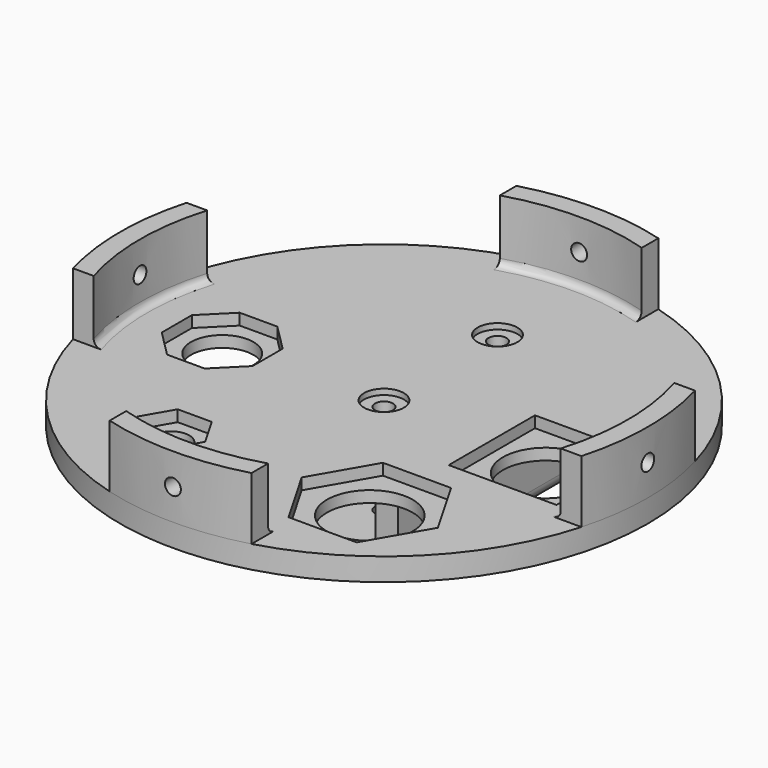
from build123d import *

# Parameters (mm, degrees)
SKETCH159_R       = 7
EXTRUDE060_DEPTH  = 2
SKETCH158_R       = 7
EXTRUDE059_DEPTH  = 2
SKETCH143_R       = 3.2
EXTRUDE044_DEPTH  = 50
SKETCH157_W       = 38
SKETCH157_H       = 38
EXTRUDE058_DEPTH  = 10
EXTRUDE036_DEPTH  = 100
EXTRUDE020_DEPTH  = 10
CYLINDER133_R     = 2.8
CYLINDER133_DEPTH = 300
CYLINDER134_R     = 2.8
CYLINDER134_DEPTH = 300
EXTRUDE023_DEPTH  = 30
SKETCH037_R       = 93
SKETCH037_R_2     = 11
SKETCH037_R_3     = 15.1
SKETCH037_R_4     = 6.4
EXTRUDE019_DEPTH  = 8
FILLET028_R       = 2
FILLET029_R       = 5
FILLET030_R       = 2.5


with BuildPart() as extrude060:
    # Sketch159 → Extrude060 (new body)
    with BuildSketch(Plane.XY.offset(-244)):
        with Locations((0, -100)):
            Circle(SKETCH159_R)
        with Locations((0, -150)):
            Circle(SKETCH159_R)
    extrude(amount=EXTRUDE060_DEPTH)


with BuildPart() as extrude060_1:
    # Extrude060 placement: moved
    add(extrude060.part.moved(Location((0, 0, -40))))


with BuildPart() as tslotcuts:
    # Sketch158 → Extrude059 (new body)
    with BuildSketch(Plane.XY.offset(-244)):
        with Locations((0, -100)):
            Circle(SKETCH158_R)
        with Locations((0, -150)):
            Circle(SKETCH158_R)
    extrude(amount=EXTRUDE059_DEPTH)

    # Fusion135: union Extrude060
    add(extrude060_1.part)


with BuildPart() as extrude044:
    # Sketch143 → Extrude044 (new body)
    with BuildSketch(Plane.XY):
        with Locations((0, -150)):
            Circle(SKETCH143_R)
        with Locations((0, -100)):
            Circle(SKETCH143_R)
    extrude(amount=EXTRUDE044_DEPTH)


with BuildPart() as extrude044_1:
    # Extrude044 placement: moved
    add(extrude044.part.moved(Location((0, 0, -290))))


with BuildPart() as level5cuts002:
    # Sketch157 → Extrude058 (new body)
    with BuildSketch(Plane.XY):
        with Locations((57, -150)):
            Rectangle(SKETCH157_W, SKETCH157_H)
        Polygon((-29, -210.392305), (-23, -200), (-29, -189.607695), (-41, -189.607695), (-47, -200), (-41, -210.392305), align=None)
        Polygon((47, -220.78461), (59, -200), (47, -179.21539), (23, -179.21539), (11, -200), (23, -220.78461), align=None)
        Polygon((-50.372583, -166), (-41, -156.627417), (-41, -143.372583), (-50.372583, -134), (-63.627417, -134), (-73, -143.372583), (-73, -156.627417), (-63.627417, -166), align=None)
    extrude(amount=EXTRUDE058_DEPTH)


with BuildPart() as level5cuts002_1:
    # Extrude058 placement: moved
    add(level5cuts002.part.moved(Location((0, 0, -246))))

    # Fusion133: union Extrude044
    add(extrude044_1.part)

    # Fusion136: union tSlotCuts
    add(tslotcuts.part)


with BuildPart() as level5s012:
    # Sketch054 → Extrude036 (new body)
    with BuildSketch(Plane.XZ):
        Polygon((-21, -250), (-13, -250), (-13, -276), (13, -276), (13, -250), (21, -250), (21, -284), (-21, -284), align=None)
    extrude(amount=EXTRUDE036_DEPTH)


with BuildPart() as level5s012_1:
    # Extrude036 placement: moved
    add(level5s012.part.moved(Location((0, -70, 0))))


with BuildPart() as obj1:
    # Sketch038 → Extrude020 (new body)
    with BuildSketch(Plane.XY):
        with BuildLine():
            ThreePointArc((-5, -220), (0, -225), (5, -220))
            Line((5, -220), (5, -212.5))
            ThreePointArc((5, -212.5), (0, -207.5), (-5, -212.5))
            Line((-5, -212.5), (-5, -220))
        make_face()
    extrude(amount=EXTRUDE020_DEPTH)


with BuildPart() as obj1_1:
    # Extrude020 placement: moved
    add(obj1.part.moved(Location((0, 0, -246.5))))


with BuildPart() as cylinder133:
    # Cylinder133 → Cylinder133 (new body)
    with BuildSketch(Plane(origin=(0, 0, 90), x_dir=(1, 0, 0), z_dir=(0, -1, 0))):
        Circle(CYLINDER133_R)
    extrude(amount=CYLINDER133_DEPTH)


with BuildPart() as m4heatsetcuts001:
    # Cylinder134 → Cylinder134 (new body)
    with BuildSketch(Plane(origin=(-150, -150, 90), x_dir=(0, 1, 0), z_dir=(1, 0, 0))):
        Circle(CYLINDER134_R)
    extrude(amount=CYLINDER134_DEPTH)

    # Fusion085: union Cylinder133
    add(cylinder133.part)


with BuildPart() as m4heatsetcuts001_1:
    # Fusion085 placement: moved
    add(m4heatsetcuts001.part.moved(Location((0, 0, -321))))


with BuildPart() as obj2:
    # Sketch041 → Extrude023 (new body)
    with BuildSketch(Plane.XY):
        with BuildLine():
            ThreePointArc((-89.576783, -125), (-93, -150), (-89.576783, -175))
            Line((-89.576783, -175), (-82.286086, -175))
            ThreePointArc((-82.286086, -125), (-86, -150), (-82.286086, -175))
            Line((-89.576783, -125), (-82.286086, -125))
        make_face()
        with BuildLine():
            ThreePointArc((25, -60.423217), (0, -57), (-25, -60.423217))
            Line((-25, -60.423217), (-25, -67.713914))
            ThreePointArc((25, -67.713914), (0, -64), (-25, -67.713914))
            Line((25, -60.423217), (25, -67.713914))
        make_face()
        with BuildLine():
            ThreePointArc((89.576783, -175), (93, -150), (89.576783, -125))
            Line((89.576783, -125), (82.286086, -125))
            ThreePointArc((82.286086, -175), (86, -150), (82.286086, -125))
            Line((89.576783, -175), (82.286086, -175))
        make_face()
        with BuildLine():
            ThreePointArc((-25, -239.576783), (0, -243), (25, -239.576783))
            Line((25, -239.576783), (25, -232.286086))
            ThreePointArc((-25, -232.286086), (0, -236), (25, -232.286086))
            Line((-25, -239.576783), (-25, -232.286086))
        make_face()
    extrude(amount=EXTRUDE023_DEPTH)


with BuildPart() as obj2_1:
    # Extrude023 placement: moved
    add(obj2.part.moved(Location((0, 0, -250))))


with BuildPart() as level5s015:
    # Sketch037 → Extrude019 (new body)
    with BuildSketch(Plane.XY):
        with Locations((0, -150)):
            Circle(SKETCH037_R)
        with Locations((-57, -150)):
            Circle(SKETCH037_R_2, mode=Mode.SUBTRACT)
        with Locations((57, -150)):
            Circle(SKETCH037_R_3, mode=Mode.SUBTRACT)
        with Locations((35, -200)):
            Circle(SKETCH037_R_3, mode=Mode.SUBTRACT)
        with Locations((-35, -200)):
            Circle(SKETCH037_R_4, mode=Mode.SUBTRACT)
        with BuildLine():
            ThreePointArc((-3.2, -216.158125), (0, -225), (3.2, -216.158125))
            Line((3.2, -216.158125), (3.2, -212.5))
            ThreePointArc((3.2, -212.5), (0, -209.3), (-3.2, -212.5))
            Line((-3.2, -212.5), (-3.2, -216.158125))
        make_face(mode=Mode.SUBTRACT)
    extrude(amount=EXTRUDE019_DEPTH)


with BuildPart() as level5s015_1:
    # Extrude019 placement: moved
    add(level5s015.part.moved(Location((0, 0, -250))))

    # Fusion083: union obj2
    add(obj2_1.part)

    # Cut035: cut m4HeatSetCuts001
    add(m4heatsetcuts001_1.part, mode=Mode.SUBTRACT)

    # Cut041: cut obj1
    add(obj1_1.part, mode=Mode.SUBTRACT)

    # Fusion134: union level5s012
    add(level5s012_1.part)

    # Cut098: cut level5Cuts002
    add(level5cuts002_1.part, mode=Mode.SUBTRACT)

    # Fillet028
    fillet028_edges = [level5s015_1.edges().sort_by_distance(p)[0] for p in [
        (-13, -120, -250),
        (13, -120, -250),
        (-13, -120, -276),
        (13, -120, -276),
    ]]
    fillet(fillet028_edges, radius=FILLET028_R)

    # Fillet029
    fillet029_edges = [level5s015_1.edges().sort_by_distance(p)[0] for p in [
        (-21, -120, -250),
        (21, -120, -250),
        (-21, -120, -284),
        (21, -120, -284),
    ]]
    fillet(fillet029_edges, radius=FILLET029_R)

    # Fillet030
    fillet030_edges = [level5s015_1.edges().sort_by_distance(p)[0] for p in [
        (86, -150, -242),
        (0, -64, -242),
        (0, -236, -242),
        (-86, -150, -242),
    ]]
    fillet(fillet030_edges, radius=FILLET030_R)


solid = level5s015_1.part
